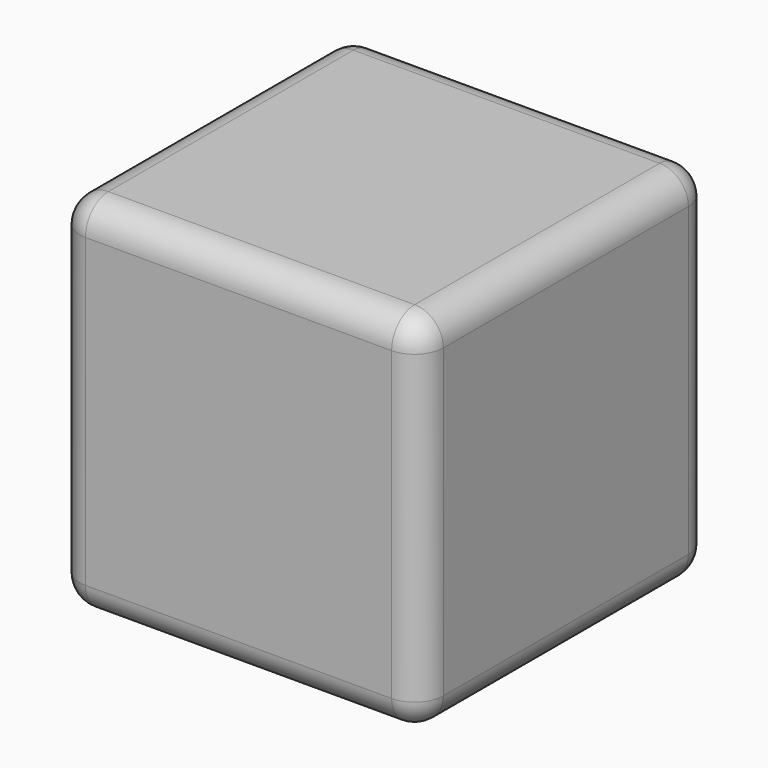
from build123d import *

# Parameters (mm, degrees)
F0_W     = 19
F0_H     = 19
F1_DEPTH = 19
F2_R     = 1.5
F3_R     = 0.982885
F3_R_2   = 1
F3_R_3   = 0.934446
F4_DEPTH = 1
F5_R     = 0.93


with BuildPart() as f1:
    # F0 (on Front) → F1 (new body)
    with BuildSketch(Plane.XZ):
        with Locations((9.5, 9.5)):
            Rectangle(F0_W, F0_H)
    extrude(amount=F1_DEPTH)

    # F2
    f2_edges = [f1.edges().sort_by_distance(p)[0] for p in [
        (19, -9.5, 19),
        (0, -9.5, 19),
        (9.5, 0, 19),
        (9.5, -19, 19),
        (19, -9.5, 0),
        (19, 0, 9.5),
        (19, -19, 9.5),
        (0, 0, 9.5),
        (9.5, 0, 0),
        (0, -19, 9.5),
        (9.5, -19, 0),
        (0, -9.5, 0),
    ]]
    fillet(f2_edges, radius=F2_R)

    # F3 (on face) → F4 (cut)
    with BuildSketch(Plane(origin=(0, 0, 0), x_dir=(-1, 0, 0), z_dir=(0, 1, 0))):
        with Locations((-14.5, 9.5)):
            Circle(F3_R)
        with Locations((-14.5, 14.5)):
            Circle(F3_R_2)
        with Locations((-14.5, 4.5)):
            Circle(F3_R_2)
        with Locations((-4.5, 4.5)):
            Circle(F3_R_3)
        with Locations((-4.5, 9.5)):
            Circle(F3_R_2)
        with Locations((-4.5, 14.5)):
            Circle(F3_R_2)
    extrude(amount=-F4_DEPTH, mode=Mode.SUBTRACT)

    # F5
    f5_edges = [f1.edges().sort_by_distance(p)[0] for p in [
        (15.5, -1, 14.5),
        (15.482885, -1, 9.5),
        (15.5, -1, 4.5),
        (5.434446, -1, 4.5),
        (5.5, -1, 9.5),
        (5.5, -1, 14.5),
    ]]
    fillet(f5_edges, radius=F5_R)


solid = f1.part
